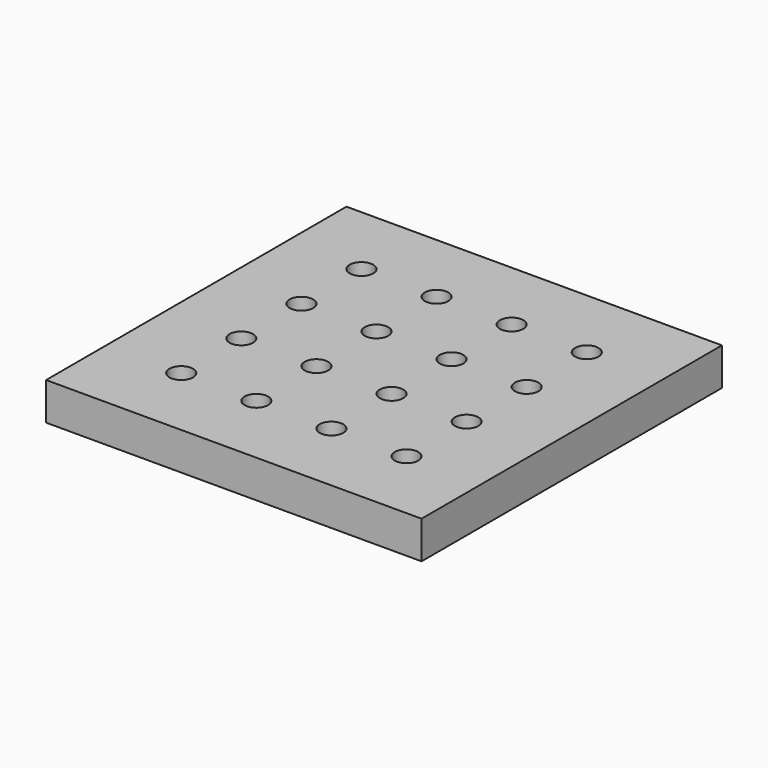
from build123d import *

# Parameters (mm, degrees)
F0_W     = 150
F0_H     = 150
F0_R     = 6.05
F0_R_2   = 4.7
F1_DEPTH = 15
F2_DEPTH = 15
F3_DEPTH = 10
F4_DEPTH = 10
F5_DEPTH = 10
F6_DEPTH = 25
F7_DEPTH = 10


with BuildPart() as f1:
    # F0 (on Top) → F1 (new body)
    with BuildSketch(Plane.XY):
        with Locations((-75, 75)):
            Rectangle(F0_W, F0_H)
        with Locations((-120, 30)):
            Circle(F0_R, mode=Mode.SUBTRACT)
        with Locations((-90, 30)):
            Circle(F0_R, mode=Mode.SUBTRACT)
        with Locations((-120, 60)):
            Circle(F0_R, mode=Mode.SUBTRACT)
        with Locations((-90, 60)):
            Circle(F0_R, mode=Mode.SUBTRACT)
        with Locations((-60, 30)):
            Circle(F0_R, mode=Mode.SUBTRACT)
        with Locations((-30, 30)):
            Circle(F0_R, mode=Mode.SUBTRACT)
        with Locations((-60, 60)):
            Circle(F0_R, mode=Mode.SUBTRACT)
        with Locations((-30, 60)):
            Circle(F0_R, mode=Mode.SUBTRACT)
        with Locations((-120, 90)):
            Circle(F0_R, mode=Mode.SUBTRACT)
        with Locations((-90, 90)):
            Circle(F0_R, mode=Mode.SUBTRACT)
        with Locations((-120, 120)):
            Circle(F0_R, mode=Mode.SUBTRACT)
        with Locations((-90, 120)):
            Circle(F0_R, mode=Mode.SUBTRACT)
        with Locations((-60, 90)):
            Circle(F0_R, mode=Mode.SUBTRACT)
        with Locations((-30, 90)):
            Circle(F0_R, mode=Mode.SUBTRACT)
        with Locations((-60, 120)):
            Circle(F0_R, mode=Mode.SUBTRACT)
        with Locations((-30, 120)):
            Circle(F0_R, mode=Mode.SUBTRACT)
        with Locations((-120, 30)):
            Circle(F0_R)
        with Locations((-120, 30)):
            Circle(F0_R_2, mode=Mode.SUBTRACT)
        with Locations((-120, 30)):
            Circle(F0_R_2)
    extrude(amount=-F1_DEPTH)

    # F0 (on Top) → F2 (cut)
    with BuildSketch(Plane.XY):
        with Locations((-120, 30)):
            Circle(F0_R_2)
    extrude(amount=-F2_DEPTH, mode=Mode.SUBTRACT)

    # F0 (on Top) → F3 (cut)
    with BuildSketch(Plane.XY):
        with Locations((-120, 30)):
            Circle(F0_R)
        with Locations((-120, 30)):
            Circle(F0_R_2, mode=Mode.SUBTRACT)
    extrude(amount=-F3_DEPTH, mode=Mode.SUBTRACT)

    # F0 (on Top) → F4 (join)
    with BuildSketch(Plane.XY):
        with Locations((-120, 60)):
            Circle(F0_R)
        with Locations((-120, 60)):
            Circle(F0_R_2, mode=Mode.SUBTRACT)
        with Locations((-120, 90)):
            Circle(F0_R)
        with Locations((-120, 90)):
            Circle(F0_R_2, mode=Mode.SUBTRACT)
        with Locations((-120, 120)):
            Circle(F0_R)
        with Locations((-120, 120)):
            Circle(F0_R_2, mode=Mode.SUBTRACT)
        with Locations((-90, 120)):
            Circle(F0_R)
        with Locations((-90, 120)):
            Circle(F0_R_2, mode=Mode.SUBTRACT)
        with Locations((-60, 120)):
            Circle(F0_R)
        with Locations((-60, 120)):
            Circle(F0_R_2, mode=Mode.SUBTRACT)
        with Locations((-90, 90)):
            Circle(F0_R)
        with Locations((-90, 90)):
            Circle(F0_R_2, mode=Mode.SUBTRACT)
        with Locations((-90, 60)):
            Circle(F0_R)
        with Locations((-90, 60)):
            Circle(F0_R_2, mode=Mode.SUBTRACT)
        with Locations((-60, 90)):
            Circle(F0_R)
        with Locations((-60, 90)):
            Circle(F0_R_2, mode=Mode.SUBTRACT)
        with Locations((-30, 90)):
            Circle(F0_R)
        with Locations((-30, 90)):
            Circle(F0_R_2, mode=Mode.SUBTRACT)
        with Locations((-30, 60)):
            Circle(F0_R)
        with Locations((-30, 60)):
            Circle(F0_R_2, mode=Mode.SUBTRACT)
        with Locations((-60, 60)):
            Circle(F0_R)
        with Locations((-60, 60)):
            Circle(F0_R_2, mode=Mode.SUBTRACT)
        with Locations((-60, 30)):
            Circle(F0_R)
        with Locations((-60, 30)):
            Circle(F0_R_2, mode=Mode.SUBTRACT)
        with Locations((-90, 30)):
            Circle(F0_R)
        with Locations((-90, 30)):
            Circle(F0_R_2, mode=Mode.SUBTRACT)
        with Locations((-30, 120)):
            Circle(F0_R)
        with Locations((-30, 120)):
            Circle(F0_R_2, mode=Mode.SUBTRACT)
        with Locations((-30, 30)):
            Circle(F0_R)
        with Locations((-30, 30)):
            Circle(F0_R_2, mode=Mode.SUBTRACT)
        with Locations((-120, 30)):
            Circle(F0_R)
        with Locations((-120, 30)):
            Circle(F0_R_2, mode=Mode.SUBTRACT)
    extrude(amount=-F4_DEPTH)

    # F0 (on Top) → F5 (cut)
    with BuildSketch(Plane.XY):
        with Locations((-120, 30)):
            Circle(F0_R)
        with Locations((-120, 30)):
            Circle(F0_R_2, mode=Mode.SUBTRACT)
    extrude(amount=-F5_DEPTH, mode=Mode.SUBTRACT)

    # F0 (on Top) → F6 (cut)
    with BuildSketch(Plane.XY):
        with Locations((-120, 30)):
            Circle(F0_R)
        with Locations((-120, 30)):
            Circle(F0_R_2, mode=Mode.SUBTRACT)
    extrude(amount=-F6_DEPTH, mode=Mode.SUBTRACT)

    # F0 (on Top) → F7 (join)
    with BuildSketch(Plane.XY):
        with Locations((-120, 30)):
            Circle(F0_R)
        with Locations((-120, 30)):
            Circle(F0_R_2, mode=Mode.SUBTRACT)
    extrude(amount=-F7_DEPTH)


solid = f1.part
